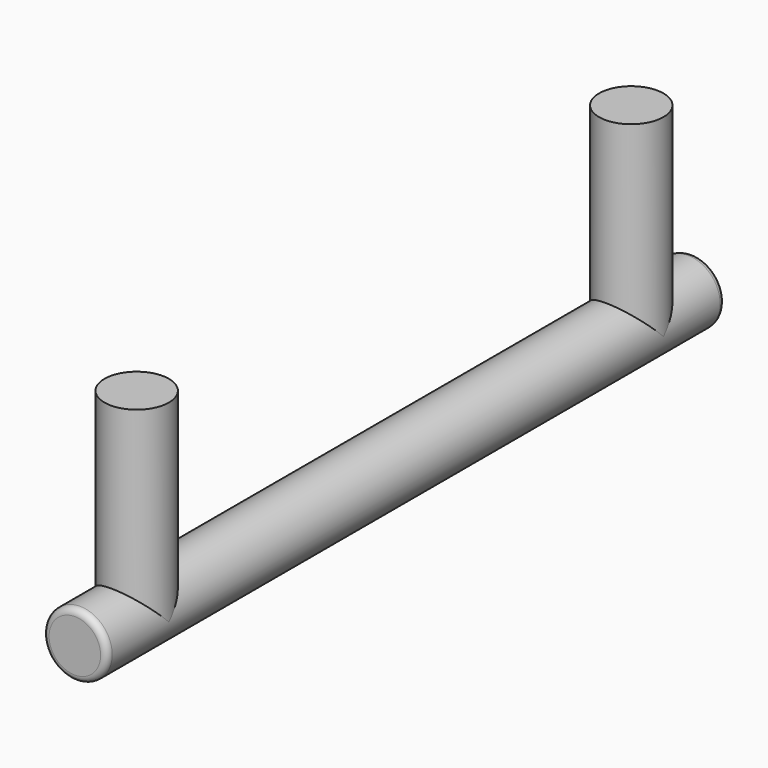
from build123d import *

# Parameters (mm, degrees)
F0_R     = 5
F1_DEPTH = 60
F2_R     = 5
F3_DEPTH = 30
F4_R     = 1


with BuildPart() as f1:
    # F0 (on Front) → F1 (new body, symmetric)
    with BuildSketch(Plane.XZ):
        Circle(F0_R)
    extrude(amount=F1_DEPTH, both=True)

    # F2 (on Top) → F3 (join)
    with BuildSketch(Plane.XY):
        with Locations((0, 48)):
            Circle(F2_R)
        with Locations((0, -48)):
            Circle(F2_R)
    extrude(amount=F3_DEPTH)

    # F4
    f4_edges = [f1.edges().sort_by_distance(p)[0] for p in [
        (-5, 60, 0),
        (-5, -60, 0),
    ]]
    fillet(f4_edges, radius=F4_R)


solid = f1.part
